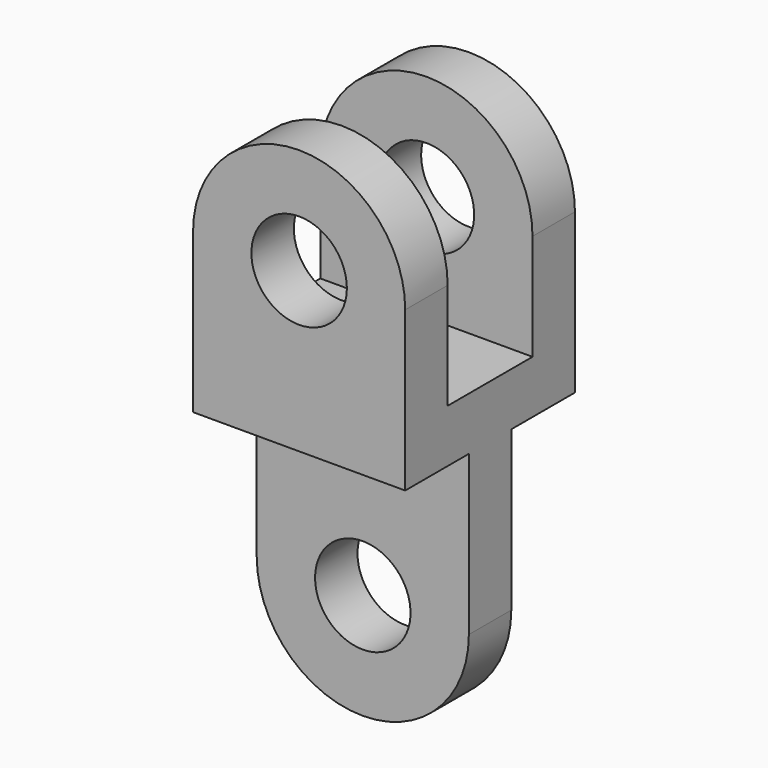
from build123d import *

# Parameters (mm, degrees)
F1_DEPTH = 5
F2_W     = 40
F2_H     = 40
F3_DEPTH = 10
F5_DEPTH = 10
F7_DEPTH = 10


with BuildPart() as f1:
    # F0 (on Front) → F1 (new body, symmetric)
    with BuildSketch(Plane.XZ):
        with BuildLine():
            ThreePointArc((-20, -15), (0, -35), (20, -15))
            Line((20, -15), (9, -15))
            ThreePointArc((9, -15), (0, -24), (-9, -15))
            Line((-9, -15), (-20, -15))
        make_face()
        with BuildLine():
            Line((9, -15), (20, -15))
            Line((20, -15), (20, 15))
            Line((20, 15), (-20, 15))
            Line((-20, 15), (-20, -15))
            Line((-20, -15), (-9, -15))
            ThreePointArc((-9, -15), (0, -6), (9, -15))
        make_face()
    extrude(amount=F1_DEPTH, both=True)

    # F2 (on face) → F3 (join)
    with BuildSketch(Plane.XY.offset(15)):
        Rectangle(F2_W, F2_H)
    extrude(amount=F3_DEPTH)

    # F4 (on face) → F5 (join)
    with BuildSketch(Plane.XZ.offset(20)):
        with BuildLine():
            ThreePointArc((-9, 45), (0, 54), (9, 45))
            Line((9, 45), (20, 45))
            ThreePointArc((20, 45), (0, 65), (-20, 45))
            Line((-20, 45), (-9, 45))
        make_face()
        with BuildLine():
            Line((20, 45), (9, 45))
            ThreePointArc((9, 45), (0, 36), (-9, 45))
            Line((-9, 45), (-20, 45))
            Line((-20, 45), (-20, 25))
            Line((-20, 25), (20, 25))
            Line((20, 25), (20, 45))
        make_face()
    extrude(amount=-F5_DEPTH)

    # F6 (on face) → F7 (join)
    with BuildSketch(Plane(origin=(0, 20, 0), x_dir=(-1, 0, 0), z_dir=(0, 1, 0))):
        with BuildLine():
            ThreePointArc((-9, 45), (0, 54), (9, 45))
            Line((9, 45), (20, 45))
            ThreePointArc((20, 45), (0, 65), (-20, 45))
            Line((-20, 45), (-9, 45))
        make_face()
        with BuildLine():
            Line((20, 45), (9, 45))
            ThreePointArc((9, 45), (0, 36), (-9, 45))
            Line((-9, 45), (-20, 45))
            Line((-20, 45), (-20, 25))
            Line((-20, 25), (20, 25))
            Line((20, 25), (20, 45))
        make_face()
    extrude(amount=-F7_DEPTH)


solid = f1.part
